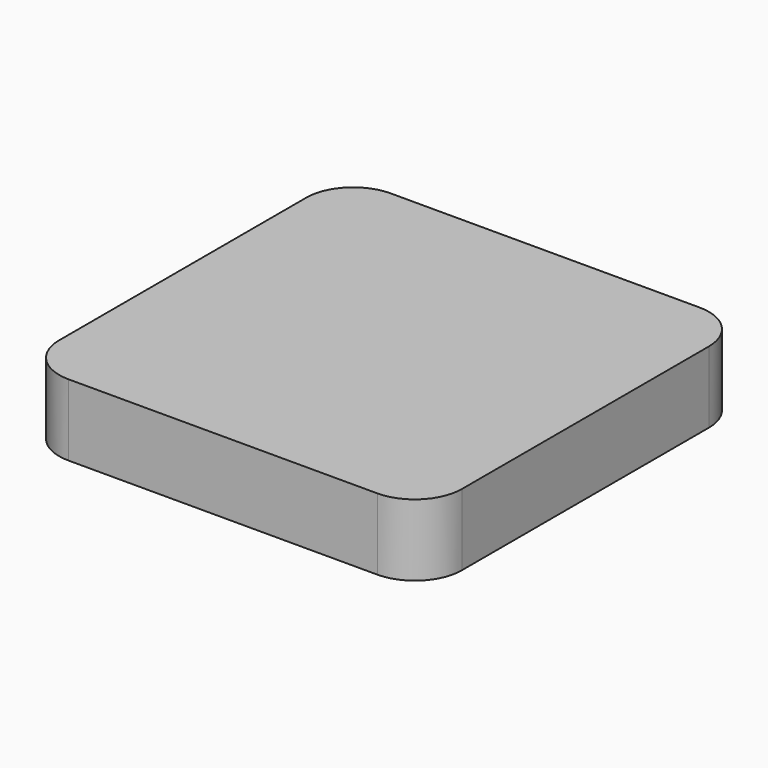
from build123d import *

# Parameters (mm, degrees)
F1_DEPTH = 30
F2_R     = 75
F2_R_2   = 65
F3_DEPTH = 5


with BuildPart() as f1:
    # F0 (on Top) → F1 (new body)
    with BuildSketch(Plane.XY):
        with BuildLine():
            ThreePointArc((98.5, 75.5), (91.763456, 91.763456), (75.5, 98.5))
            Line((75.5, 98.5), (-75.5, 98.5))
            ThreePointArc((-75.5, 98.5), (-91.763456, 91.763456), (-98.5, 75.5))
            Line((-98.5, 75.5), (-98.5, -75.5))
            ThreePointArc((-98.5, -75.5), (-91.763456, -91.763456), (-75.5, -98.5))
            Line((-75.5, -98.5), (75.5, -98.5))
            ThreePointArc((75.5, -98.5), (91.763456, -91.763456), (98.5, -75.5))
            Line((98.5, -75.5), (98.5, 75.5))
        make_face()
    extrude(amount=F1_DEPTH)

    # F2 (on face) → F3 (join)
    with BuildSketch(Plane.XY):
        with BuildLine():
            Line((98.5, -75.5), (98.5, 75.5))
            ThreePointArc((98.5, 75.5), (91.763456, 91.763456), (75.5, 98.5))
            Line((75.5, 98.5), (-75.5, 98.5))
            ThreePointArc((-75.5, 98.5), (-91.763456, 91.763456), (-98.5, 75.5))
            Line((-98.5, 75.5), (-98.5, -75.5))
            ThreePointArc((-98.5, -75.5), (-91.763456, -91.763456), (-75.5, -98.5))
            Line((-75.5, -98.5), (75.5, -98.5))
            ThreePointArc((75.5, -98.5), (91.763456, -91.763456), (98.5, -75.5))
        make_face()
        Circle(F2_R, mode=Mode.SUBTRACT)
        Circle(F2_R)
        Circle(F2_R_2, mode=Mode.SUBTRACT)
    extrude(amount=-F3_DEPTH)


solid = f1.part
